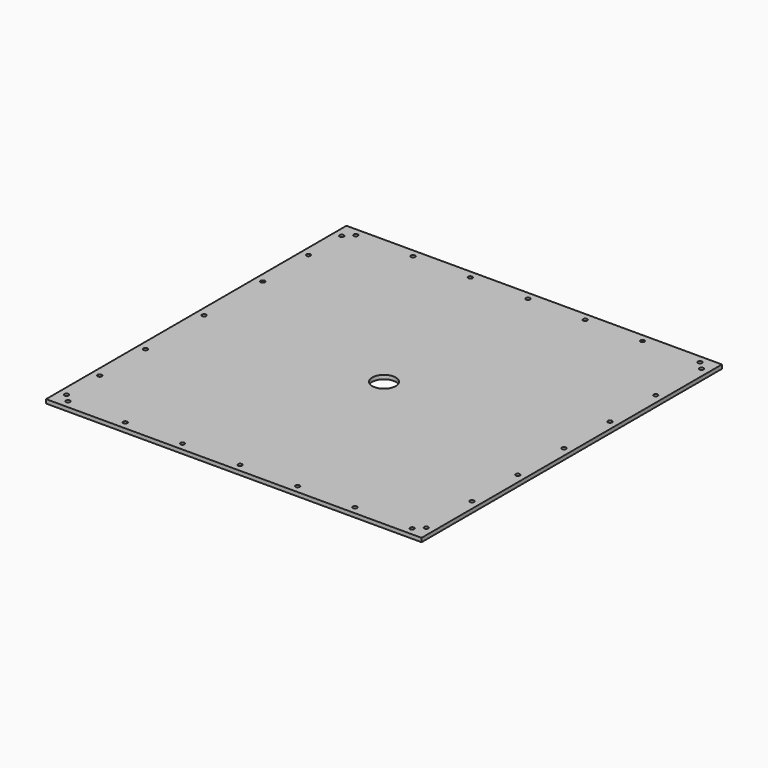
from build123d import *

# Parameters (mm, degrees)
F0_W     = 609.6
F0_H     = 609.6
F0_R     = 3.175
F0_R_2   = 19.05
F1_DEPTH = 6.35
F2_D     = 6.7564
F2_DEPTH = 6.35
F2_TIP   = 2.0298273432


with BuildPart() as f1:
    # F0 (on Top) → F1 (new body)
    with BuildSketch(Plane.XY):
        with Locations((-134.2642435281, 95.1228634718)):
            Rectangle(F0_W, F0_H)
        with Locations((-413.6642435281, -196.9771365282)):
            Circle(F0_R, mode=Mode.SUBTRACT)
        with Locations((-426.3642435281, -184.2771365282)):
            Circle(F0_R, mode=Mode.SUBTRACT)
        with Locations((-320.7002435281, -196.9771365282)):
            Circle(F0_R, mode=Mode.SUBTRACT)
        with Locations((-426.3642435281, -116.7131365282)):
            Circle(F0_R, mode=Mode.SUBTRACT)
        with Locations((-227.7362435281, -196.9771365282)):
            Circle(F0_R, mode=Mode.SUBTRACT)
        with Locations((-134.2642435281, -196.9771365282)):
            Circle(F0_R, mode=Mode.SUBTRACT)
        with Locations((-426.3642435281, -23.7491365282)):
            Circle(F0_R, mode=Mode.SUBTRACT)
        with Locations((-40.7922435281, -196.9771365282)):
            Circle(F0_R, mode=Mode.SUBTRACT)
        with Locations((52.1717564719, -196.9771365282)):
            Circle(F0_R, mode=Mode.SUBTRACT)
        with Locations((145.1357564719, -196.9771365282)):
            Circle(F0_R, mode=Mode.SUBTRACT)
        with Locations((157.8357564719, -184.2771365282)):
            Circle(F0_R, mode=Mode.SUBTRACT)
        with Locations((157.8357564719, -91.3131365282)):
            Circle(F0_R, mode=Mode.SUBTRACT)
        with Locations((157.8357564719, 1.6508634718)):
            Circle(F0_R, mode=Mode.SUBTRACT)
        with Locations((-426.3642435281, 95.1228634718)):
            Circle(F0_R, mode=Mode.SUBTRACT)
        with Locations((-426.3642435281, 213.9948634718)):
            Circle(F0_R, mode=Mode.SUBTRACT)
        with Locations((-134.2642435281, 95.1228634718)):
            Circle(F0_R_2, mode=Mode.SUBTRACT)
        with Locations((-426.3642435281, 306.9588634718)):
            Circle(F0_R, mode=Mode.SUBTRACT)
        with Locations((-426.3642435281, 374.5228634718)):
            Circle(F0_R, mode=Mode.SUBTRACT)
        with Locations((-413.6642435281, 387.2228634718)):
            Circle(F0_R, mode=Mode.SUBTRACT)
        with Locations((-320.7002435281, 387.2228634718)):
            Circle(F0_R, mode=Mode.SUBTRACT)
        with Locations((-227.7362435281, 387.2228634718)):
            Circle(F0_R, mode=Mode.SUBTRACT)
        with Locations((157.8357564719, 95.1228634718)):
            Circle(F0_R, mode=Mode.SUBTRACT)
        with Locations((157.8357564719, 188.5948634718)):
            Circle(F0_R, mode=Mode.SUBTRACT)
        with Locations((-41.3002435281, 387.2228634718)):
            Circle(F0_R, mode=Mode.SUBTRACT)
        with Locations((157.8357564719, 281.5588634718)):
            Circle(F0_R, mode=Mode.SUBTRACT)
        with Locations((51.6637564719, 387.2228634718)):
            Circle(F0_R, mode=Mode.SUBTRACT)
        with Locations((157.8357564719, 374.5228634718)):
            Circle(F0_R, mode=Mode.SUBTRACT)
        with Locations((145.1357564719, 387.2228634718)):
            Circle(F0_R, mode=Mode.SUBTRACT)
        with Locations((-40.7922435281, -196.9771365282)):
            Circle(F0_R)
        with Locations((157.8357564719, 95.1228634718)):
            Circle(F0_R)
        with Locations((145.1357564719, 387.2228634718)):
            Circle(F0_R)
        with Locations((-41.3002435281, 387.2228634718)):
            Circle(F0_R)
        with Locations((157.8357564719, 281.5588634718)):
            Circle(F0_R)
        with Locations((145.1357564719, -196.9771365282)):
            Circle(F0_R)
        with Locations((157.8357564719, 1.6508634718)):
            Circle(F0_R)
        with Locations((-426.3642435281, 213.9948634718)):
            Circle(F0_R)
        with Locations((-134.2642435281, -196.9771365282)):
            Circle(F0_R)
        with Locations((-227.7362435281, -196.9771365282)):
            Circle(F0_R)
        with Locations((52.1717564719, -196.9771365282)):
            Circle(F0_R)
        with Locations((-320.7002435281, -196.9771365282)):
            Circle(F0_R)
        with Locations((-426.3642435281, -184.2771365282)):
            Circle(F0_R)
        with Locations((-426.3642435281, -116.7131365282)):
            Circle(F0_R)
        with Locations((-413.6642435281, -196.9771365282)):
            Circle(F0_R)
        with Locations((-227.7362435281, 387.2228634718)):
            Circle(F0_R)
        with Locations((-426.3642435281, -23.7491365282)):
            Circle(F0_R)
        with Locations((157.8357564719, -184.2771365282)):
            Circle(F0_R)
        with Locations((-426.3642435281, 95.1228634718)):
            Circle(F0_R)
        with Locations((-426.3642435281, 306.9588634718)):
            Circle(F0_R)
        with Locations((157.8357564719, 374.5228634718)):
            Circle(F0_R)
        with Locations((-320.7002435281, 387.2228634718)):
            Circle(F0_R)
        with Locations((-413.6642435281, 387.2228634718)):
            Circle(F0_R)
        with Locations((157.8357564719, 188.5948634718)):
            Circle(F0_R)
        with Locations((51.6637564719, 387.2228634718)):
            Circle(F0_R)
        with Locations((157.8357564719, -91.3131365282)):
            Circle(F0_R)
        with Locations((-426.3642435281, 374.5228634718)):
            Circle(F0_R)
    extrude(amount=F1_DEPTH)

    # F2
    with Locations(Plane(origin=(0, 0, 0), x_dir=(1, 0, 0), z_dir=(0, 0, -1))):
        with Locations((-320.7002435281, -387.2228634718), (-413.6642435281, -387.2228634718), (-426.3642435281, -374.5228634718), (-426.3642435281, -306.9588634718), (-426.3642435281, -213.9948634718), (-426.3642435281, -95.1228634718), (-426.3642435281, 23.7491365282), (-426.3642435281, 116.7131365282), (-426.3642435281, 184.2771365282), (-413.6642435281, 196.9771365282), (-320.7002435281, 196.9771365282), (-227.7362435281, 196.9771365282), (-134.2642435281, 196.9771365282), (-40.7922435281, 196.9771365282), (52.1717564719, 196.9771365282), (145.1357564719, 196.9771365282), (157.8357564719, 184.2771365282), (157.8357564719, 91.3131365282), (157.8357564719, -1.6508634718), (157.8357564719, -95.1228634718), (157.8357564719, -188.5948634718), (157.8357564719, -281.5588634718), (157.8357564719, -374.5228634718), (145.1357564719, -387.2228634718), (51.6637564719, -387.2228634718), (-41.3002435281, -387.2228634718), (-134.2642435281, -387.2228634718), (-227.7362435281, -387.2228634718)):
            Hole(F2_D / 2, depth=F2_DEPTH)
            with Locations((0, 0, -(F2_DEPTH + F2_TIP / 2))):  # 118° drill point
                Cone(0, F2_D / 2, F2_TIP, mode=Mode.SUBTRACT)


solid = f1.part
